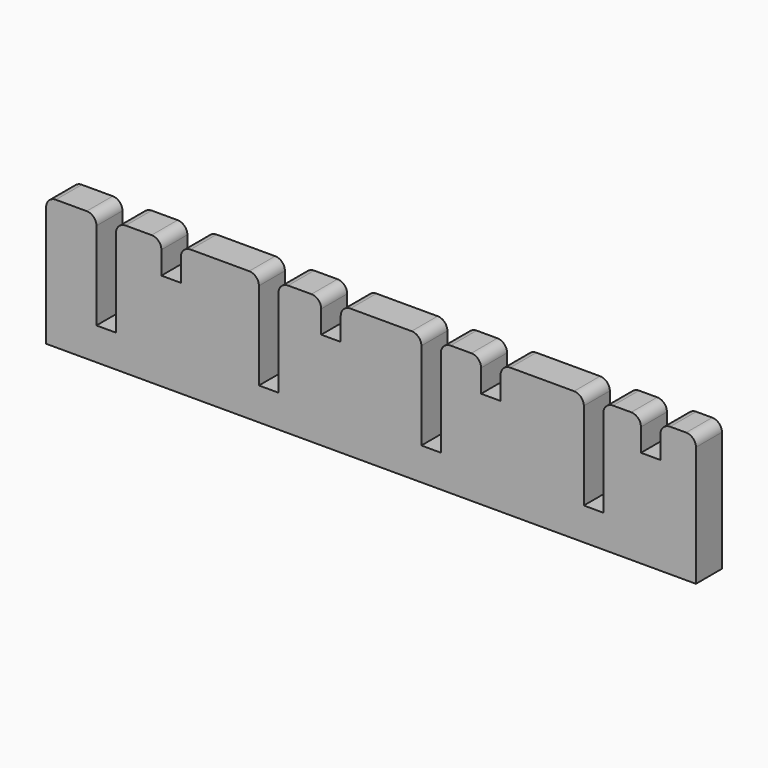
from build123d import *

# Parameters (mm, degrees)
F0_W           = 127
F0_H           = 6.35
F1_DEPTH       = 25.4
F2_W           = 3.81
F2_H           = 19.05
F2_H_2         = 6.35
F3_DEPTH       = 6.35
F4_R           = 1.905
F7_D           = 2.7051
F7_DEPTH       = 14.224
F7_TIP         = 0.8126940303
F7_ON_F6_D     = 2.7051
F7_ON_F6_DEPTH = 14.224
F7_ON_F6_TIP   = 0.8126940303
F8_D           = 2.7051
F8_DEPTH       = 8.89
F8_TIP         = 0.8126940303


with BuildPart() as f1:
    # F0 (on Top) → F1 (new body)
    with BuildSketch(Plane.XY):
        Rectangle(F0_W, F0_H)
    extrude(amount=F1_DEPTH)

    # F2 (on face) → F3 (cut, through all)
    with BuildSketch(Plane.XZ.offset(3.175)):
        with Locations((-51.7525, 15.875)):
            Rectangle(F2_W, F2_H)
        with Locations((-20.0025, 15.875)):
            Rectangle(F2_W, F2_H)
        with Locations((11.7475, 15.875)):
            Rectangle(F2_W, F2_H)
        with Locations((43.4975, 15.875)):
            Rectangle(F2_W, F2_H)
        with Locations((-39.0652, 22.225)):
            Rectangle(F2_W, F2_H_2)
        with Locations((-7.8232, 22.225)):
            Rectangle(F2_W, F2_H_2)
        with Locations((23.4188, 22.225)):
            Rectangle(F2_W, F2_H_2)
        with Locations((54.6608, 22.225)):
            Rectangle(F2_W, F2_H_2)
    extrude(amount=-F3_DEPTH, mode=Mode.SUBTRACT)

    # F4
    f4_edges = [f1.edges().sort_by_distance(p)[0] for p in [
        (-53.6575, 0, 25.4),
        (-49.8475, 0, 25.4),
        (-21.9075, 0, 25.4),
        (-18.0975, 0, 25.4),
        (9.8425, 0, 25.4),
        (13.6525, 0, 25.4),
        (41.5925, 0, 25.4),
        (45.4025, 0, 25.4),
        (-40.9702, 0, 25.4),
        (-37.1602, 0, 25.4),
        (-9.7282, 0, 25.4),
        (-5.9182, 0, 25.4),
        (21.5138, 0, 25.4),
        (25.3238, 0, 25.4),
        (52.7558, 0, 25.4),
        (56.5658, 0, 25.4),
        (63.5, 0, 25.4),
        (-63.5, 0, 25.4),
    ]]
    fillet(f4_edges, radius=F4_R)

    # F7
    with Locations(Plane(origin=(0, 0, 0), x_dir=(1, 0, 0), z_dir=(0, 0, -1))):
        with Locations((-43.2793162763, 0), (48.466347158, 0)):
            Hole(F7_D / 2, depth=F7_DEPTH)
            with Locations((0, 0, -(F7_DEPTH + F7_TIP / 2))):  # 118° drill point
                Cone(0, F7_D / 2, F7_TIP, mode=Mode.SUBTRACT)

    # F7 on F6
    with Locations(Plane(origin=(-63.5, 0, 0), x_dir=(0, -1, 0), z_dir=(-1, 0, 0))):
        with Locations((0, 3.81)):
            Hole(F7_ON_F6_D / 2, depth=F7_ON_F6_DEPTH)
            with Locations((0, 0, -(F7_ON_F6_DEPTH + F7_ON_F6_TIP / 2))):  # 118° drill point
                Cone(0, F7_ON_F6_D / 2, F7_ON_F6_TIP, mode=Mode.SUBTRACT)

    # F8
    with Locations(Plane(origin=(-63.5, 0, 0), x_dir=(0, -1, 0), z_dir=(-1, 0, 0))):
        with Locations((0, 16.51)):
            Hole(F8_D / 2, depth=F8_DEPTH)
            with Locations((0, 0, -(F8_DEPTH + F8_TIP / 2))):  # 118° drill point
                Cone(0, F8_D / 2, F8_TIP, mode=Mode.SUBTRACT)


solid = f1.part
